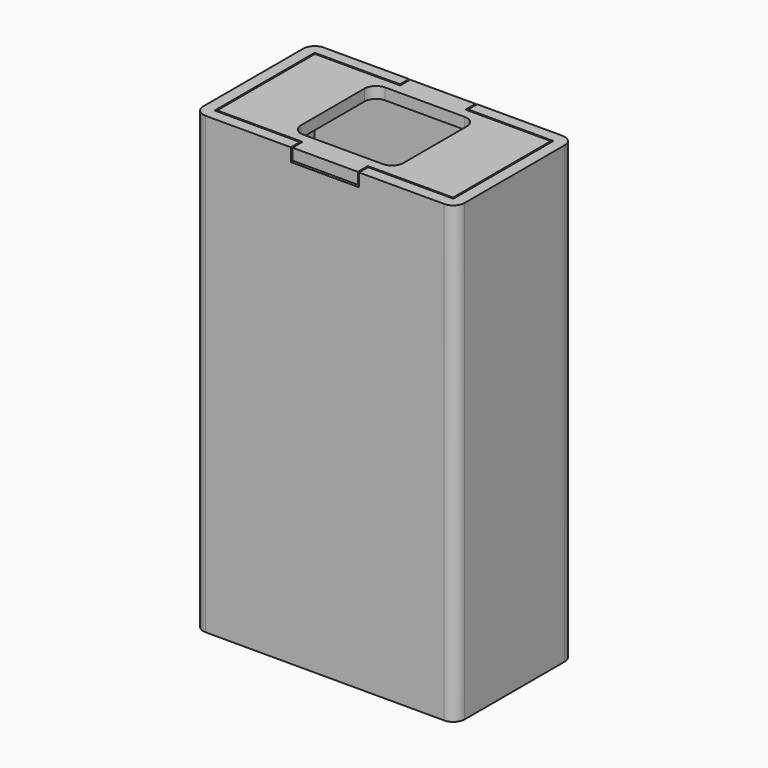
from build123d import *

# Parameters (mm, degrees)
F0_W      = 46
F0_H      = 26
F1_DEPTH  = 80
F2_T      = -2
F3_W      = 12
F3_H      = 2
F4_DEPTH  = 2.3
F7_DEPTH  = 2
F8_R      = 2
F9_R      = 5
F10_DEPTH = 25
F11_W     = 18
F11_H     = 18
F12_DEPTH = 25
F13_R     = 2
F14_W     = 18
F14_H     = 18
F15_DEPTH = 25
F16_R     = 2


with BuildPart() as f1:
    # F0 (on Top) → F1 (new body)
    with BuildSketch(Plane.XY):
        Rectangle(F0_W, F0_H)
    extrude(amount=F1_DEPTH)

    # F2
    f2_openings = [f1.faces().sort_by_distance(p)[0] for p in [
        (0, 0, 80),
    ]]
    offset(amount=F2_T, openings=f2_openings)

    # F3 (on face) → F4 (cut)
    with BuildSketch(Plane.XY.offset(80)):
        with Locations((0, 12)):
            Rectangle(F3_W, F3_H)
        with Locations((0, -12)):
            Rectangle(F3_W, F3_H)
    extrude(amount=-F4_DEPTH, mode=Mode.SUBTRACT)

    # F8
    f8_edges = [f1.edges().sort_by_distance(p)[0] for p in [
        (-23, 13, 40),
        (23, 13, 40),
        (23, -13, 40),
        (-23, -13, 40),
    ]]
    fillet(f8_edges, radius=F8_R)

    # F9 (on face) → F10 (cut)
    with BuildSketch(Plane(origin=(0, 0, 0), x_dir=(1, 0, 0), z_dir=(0, 0, -1))):
        Circle(F9_R)
    extrude(amount=-F10_DEPTH, mode=Mode.SUBTRACT)

    # F14 (on face) → F15 (cut)
    with BuildSketch(Plane(origin=(0, 0, 0), x_dir=(1, 0, 0), z_dir=(0, 0, -1))):
        Rectangle(F14_W, F14_H)
    extrude(amount=-F15_DEPTH, mode=Mode.SUBTRACT)

    # F16
    f16_edges = [f1.edges().sort_by_distance(p)[0] for p in [
        (9, 9, 1),
        (9, -9, 1),
        (-9, -9, 1),
        (-9, 9, 1),
    ]]
    fillet(f16_edges, radius=F16_R)


with BuildPart() as f7:
    # F6 (on offset) → F7 (new body)
    with BuildSketch(Plane.XY.offset(80)):
        Polygon((-5.75, 10.75), (-20.75, 10.75), (-20.75, -10.75), (-5.75, -10.75), (-5.75, -12.95), (5.75, -12.95), (5.75, -10.75), (20.75, -10.75), (20.75, 10.75), (5.75, 10.75), (5.75, 12.95), (-5.75, 12.95), align=None)
    extrude(amount=-F7_DEPTH)

    # F11 (on face) → F12 (cut)
    with BuildSketch(Plane.XY.offset(80)):
        Rectangle(F11_W, F11_H)
    extrude(amount=-F12_DEPTH, mode=Mode.SUBTRACT)

    # F13
    f13_edges = [f7.edges().sort_by_distance(p)[0] for p in [
        (-9, 9, 79),
        (9, 9, 79),
        (-9, -9, 79),
        (9, -9, 79),
    ]]
    fillet(f13_edges, radius=F13_R)


solid = Compound([f1.part, f7.part])
